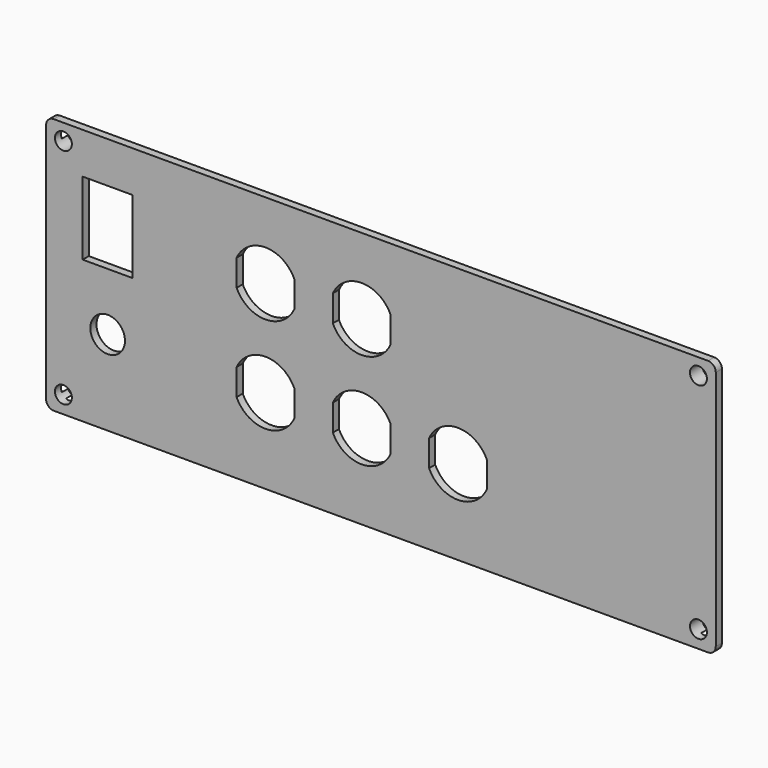
from build123d import *

# Parameters (mm, degrees)
PAD004_DEPTH    = 2
SKETCH008_W     = 169
SKETCH008_H     = 61.7
PAD005_DEPTH    = 2
SKETCH009_R     = 2.2
POCKET002_DEPTH = 4.001
SKETCH012_W     = 159
SKETCH012_H     = 51.7
POCKET005_DEPTH = 2
SKETCH010_R     = 4.5
SKETCH010_W     = 13
SKETCH010_H     = 19
POCKET003_DEPTH = 4.001


with BuildPart() as part:
    # Sketch007 → Pad004 (new body)
    with BuildSketch(Plane.XZ):
        with BuildLine():
            Line((-2, 62.7), (-2, 0))
            ThreePointArc((-2, 0), (-1.414214, -1.414214), (0, -2))
            Line((0, -2), (170, -2))
            ThreePointArc((170, -2), (171.414214, -1.414214), (172, 0))
            Line((172, 0), (172, 62.7))
            ThreePointArc((172, 62.7), (171.414214, 64.114214), (170, 64.7))
            Line((170, 64.7), (0, 64.7))
            ThreePointArc((0, 64.7), (-1.414214, 64.114214), (-2, 62.7))
        make_face()
    extrude(amount=PAD004_DEPTH)

    # Sketch008 (on Face9 of Pad004) → Pad005 (join)
    with BuildSketch(Plane(origin=(0, 0, 0), x_dir=(1, 0, 0), z_dir=(0, 1, 0))):
        with Locations((85, -31.35)):
            Rectangle(SKETCH008_W, SKETCH008_H)
    extrude(amount=PAD005_DEPTH)

    # Sketch009 (on Face5 of Pad005) → Pocket002 (cut, through all)
    with BuildSketch(Plane.XZ.offset(2)):
        with Locations((2.5, 2.5)):
            Circle(SKETCH009_R)
        with Locations((2.5, 60.5)):
            Circle(SKETCH009_R)
        with Locations((167.5, 60.5)):
            Circle(SKETCH009_R)
        with Locations((167.5, 2.5)):
            Circle(SKETCH009_R)
    extrude(amount=-POCKET002_DEPTH, mode=Mode.SUBTRACT)

    # Sketch012 (on Face28 of Pocket002) → Pocket005 (cut)
    with BuildSketch(Plane(origin=(0, 2, 0), x_dir=(1, 0, 0), z_dir=(0, 1, 0))):
        with Locations((85, -31.35)):
            Rectangle(SKETCH012_W, SKETCH012_H)
    extrude(amount=-POCKET005_DEPTH, mode=Mode.SUBTRACT)


with BuildPart() as part_1:
    # Body003 placement: moved
    add(part.part.moved(Location((-5, -5, 0))))


with BuildPart() as part_2:
    # BaseFeature placement: moved
    add(part_1.part.moved(Location((5, 5, 0))))

    # Sketch010 (on Face5 of BaseFeature) → Pocket003 (cut, through all)
    with BuildSketch(Plane.XZ.offset(2)):
        with Locations((14, 20)):
            Circle(SKETCH010_R)
        with Locations((14, 44.5)):
            Rectangle(SKETCH010_W, SKETCH010_H)
        with BuildLine():
            Line((62.5, 23.436932), (62.5, 16.563068))
            ThreePointArc((47.5, 16.563068), (55, 11.75), (62.5, 16.563068))
            Line((47.5, 23.436932), (47.5, 16.563068))
            ThreePointArc((62.5, 23.436932), (55, 28.25), (47.5, 23.436932))
        make_face()
        with BuildLine():
            ThreePointArc((47.5, 41.563068), (55, 36.75), (62.5, 41.563068))
            Line((62.5, 48.436932), (62.5, 41.563068))
            ThreePointArc((62.5, 48.436932), (55, 53.25), (47.5, 48.436932))
            Line((47.5, 48.436932), (47.5, 41.563068))
        make_face()
        with BuildLine():
            ThreePointArc((87.5, 23.436932), (80, 28.25), (72.5, 23.436932))
            Line((72.5, 23.436932), (72.5, 16.563068))
            ThreePointArc((72.5, 16.563068), (80, 11.75), (87.5, 16.563068))
            Line((87.5, 23.436932), (87.5, 16.563068))
        make_face()
        with BuildLine():
            Line((97.5, 23.436932), (97.5, 16.563068))
            ThreePointArc((97.5, 16.563068), (105, 11.75), (112.5, 16.563068))
            Line((112.5, 23.436932), (112.5, 16.563068))
            ThreePointArc((112.5, 23.436932), (105, 28.25), (97.5, 23.436932))
        make_face()
        with BuildLine():
            Line((72.5, 48.436932), (72.5, 41.563068))
            ThreePointArc((72.5, 41.563068), (80, 36.75), (87.5, 41.563068))
            Line((87.5, 48.436932), (87.5, 41.563068))
            ThreePointArc((87.5, 48.436932), (80, 53.25), (72.5, 48.436932))
        make_face()
    extrude(amount=-POCKET003_DEPTH, mode=Mode.SUBTRACT)


with BuildPart() as part_3:
    # Body004 placement: moved
    add(part_2.part.moved(Location((-5, -5, 0))))


solid = part_3.part
